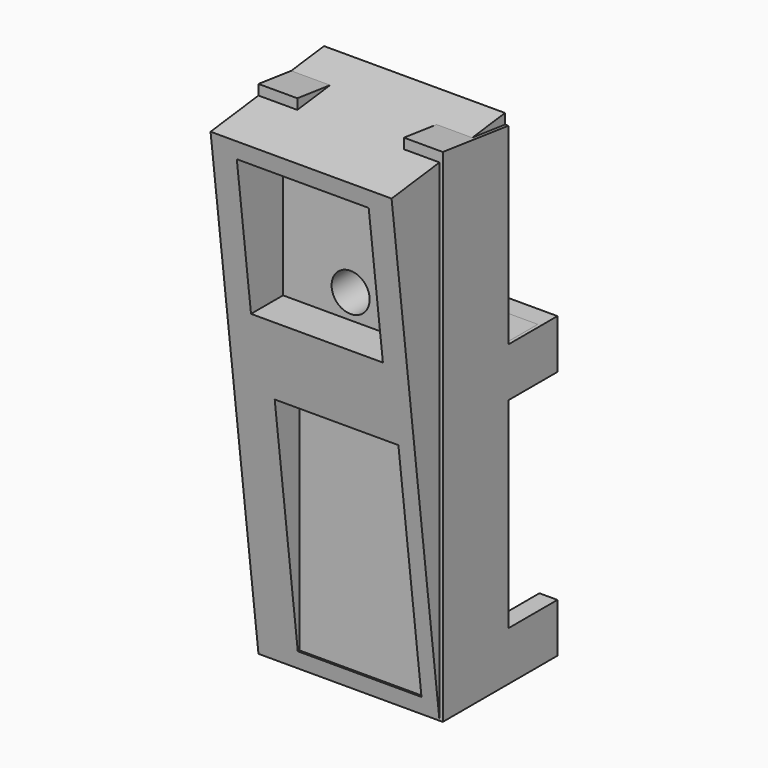
from build123d import *

# Parameters (mm, degrees)
SKETCH_W        = 45
SKETCH_H        = 20
PAD_DEPTH       = 120
PAD001_DEPTH    = 45
SKETCH002_R     = 4.65
POCKET_DEPTH    = 20
PAD002_DEPTH    = 15
PAD003_DEPTH    = 15
POCKET001_DEPTH = 9.8
SKETCH005_W     = 10
SKETCH005_H     = 73
PAD004_DEPTH    = 5
PAD005_DEPTH    = 15
PAD006_DEPTH    = 5
PAD007_DEPTH    = 15
PAD008_DEPTH    = 5
SKETCH008_W     = 44.2
SKETCH008_H     = 4
PAD009_DEPTH    = 10
SKETCH009_W     = 30.2
SKETCH009_H     = 5
PAD010_DEPTH    = 8
SKETCH011_W     = 4
SKETCH011_H     = 5
PAD011_DEPTH    = 49
SKETCH013_W     = 4
SKETCH013_H     = 15
PAD012_DEPTH    = 49
SKETCH014_W     = 44.2
SKETCH014_H     = 20
PAD013_DEPTH    = 47
PAD014_DEPTH    = 44.2
PAD015_DEPTH    = 44.2
SKETCH017_W     = 30.2
SKETCH017_H     = 57
POCKET002_DEPTH = 10
SKETCH018_W     = 32.2
SKETCH018_H     = 35
POCKET003_DEPTH = 50


with BuildPart() as body:
    # Sketch → Pad (new body)
    with BuildSketch(Plane.XY):
        with Locations((22.5, 10)):
            Rectangle(SKETCH_W, SKETCH_H)
    extrude(amount=PAD_DEPTH)

    # Sketch001 (on Face2 of Pad) → Pad001 (join)
    with BuildSketch(Plane.YZ.offset(45)):
        Polygon((0, 120), (0, 122.5), (20, 120), align=None)
    extrude(amount=-PAD001_DEPTH)

    # Sketch002 (on Face6 of Pad001) → Pocket (cut)
    with BuildSketch(Plane.XZ):
        with Locations((22.5, 85)):
            Circle(SKETCH002_R)
    extrude(amount=-POCKET_DEPTH, mode=Mode.SUBTRACT)

    # Sketch003 (on Face1 of Pocket) → Pad002 (join)
    with BuildSketch(Plane(origin=(0, 20, 0), x_dir=(-1, 0, 0), z_dir=(0, 1, 0))):
        Polygon((-4.4, 4), (-40.6, 4), (-40.6, 12), (-45, 12), (-45, 0), (0, 0), (0, 12), (-4.4, 12), align=None)
    extrude(amount=PAD002_DEPTH)

    # Sketch004 (on Face1 of Pad002) → Pad003 (join)
    with BuildSketch(Plane(origin=(0, 20, 0), x_dir=(-1, 0, 0), z_dir=(0, 1, 0))):
        Polygon((0, 73), (-45, 73), (-45, 61), (-40.6, 61), (-40.6, 69), (-4.4, 69), (-4.4, 61), (0, 61), align=None)
    extrude(amount=PAD003_DEPTH)

    # Sketch010 (on Face27 of Pad003) → Pocket001 (cut)
    with BuildSketch(Plane(origin=(0, 15.0769230769, 120.6153846154), x_dir=(1, 0, 0), z_dir=(0, 0.1240347346, 0.9922778767))):
        Polygon((9.5, 4.9613893836), (9.5, -15.1942549872), (35.5, -15.1942549872), (35.5, 4.9613893836), (35.5, 6.9613893836), (9.5, 6.9613893836), align=None)
    extrude(amount=-POCKET001_DEPTH, mode=Mode.SUBTRACT)


with BuildPart() as batteryrearmotorholder001:
    # Sketch005 → Pad004 (new body)
    with BuildSketch(Plane.XZ):
        with Locations((5, 36.5)):
            Rectangle(SKETCH005_W, SKETCH005_H)
    extrude(amount=-PAD004_DEPTH)

    # Sketch006 (on Face6 of Pad004) → Pad005 (join)
    with BuildSketch(Plane(origin=(0, 5, 0), x_dir=(1, 0, 0), z_dir=(0, 1, 0))):
        Polygon((0, 0), (10, 0), (44.2, 0), (44.2, -12), (40.2, -12), (40.2, -4), (4, -4), (4, -12), (0, -12), align=None)
    extrude(amount=PAD005_DEPTH)

    # Sketch006 (on Face6 of Pad004) → Pad006 (join)
    with BuildSketch(Plane(origin=(0, 5, 0), x_dir=(1, 0, 0), z_dir=(0, 1, 0))):
        Polygon((0, 0), (10, 0), (44.2, 0), (44.2, -12), (40.2, -12), (40.2, -4), (4, -4), (4, -12), (0, -12), align=None)
    extrude(amount=-PAD006_DEPTH)

    # Sketch007 (on Face6 of Pad004) → Pad007 (join)
    with BuildSketch(Plane(origin=(0, 5, 0), x_dir=(1, 0, 0), z_dir=(0, 1, 0))):
        Polygon((0, -73), (0, -61), (4, -61), (4, -69), (40.2, -69), (40.2, -61), (44.2, -61), (44.2, -73), align=None)
    extrude(amount=PAD007_DEPTH)

    # Sketch007 (on Face6 of Pad004) → Pad008 (join)
    with BuildSketch(Plane(origin=(0, 5, 0), x_dir=(1, 0, 0), z_dir=(0, 1, 0))):
        Polygon((0, -73), (0, -61), (4, -61), (4, -69), (40.2, -69), (40.2, -61), (44.2, -61), (44.2, -73), align=None)
    extrude(amount=-PAD008_DEPTH)

    # Sketch008 (on Face33 of Pad008) → Pad009 (join)
    with BuildSketch(Plane(origin=(0, 20, 0), x_dir=(1, 0, 0), z_dir=(0, 1, 0))):
        with Locations((22.1, -71)):
            Rectangle(SKETCH008_W, SKETCH008_H)
    extrude(amount=PAD009_DEPTH)

    # Sketch009 (on Face32 of Pad009) → Pad010 (join)
    with BuildSketch(Plane(origin=(0, 0, 69), x_dir=(1, 0, 0), z_dir=(0, 0, -1))):
        with Locations((25.1, -2.5)):
            Rectangle(SKETCH009_W, SKETCH009_H)
    extrude(amount=PAD010_DEPTH)

    # Sketch011 (on Face16 of Pad009) → Pad011 (join)
    with BuildSketch(Plane(origin=(0, 0, 12), x_dir=(-1, 0, 0), z_dir=(0, 0, 1))):
        with Locations((-42.2, -2.5)):
            Rectangle(SKETCH011_W, SKETCH011_H)
    extrude(amount=PAD011_DEPTH)

    # Sketch013 (on Face45 of Pad011) → Pad012 (join)
    with BuildSketch(Plane(origin=(0, 0, 61), x_dir=(1, 0, 0), z_dir=(0, 0, -1))):
        with Locations((42.2, -12.5)):
            Rectangle(SKETCH013_W, SKETCH013_H)
    extrude(amount=PAD012_DEPTH)

    # Sketch014 (on Face44 of Pad012) → Pad013 (join)
    with BuildSketch(Plane(origin=(0, 0, 73), x_dir=(-1, 0, 0), z_dir=(0, 0, 1))):
        with Locations((-22.1, -10)):
            Rectangle(SKETCH014_W, SKETCH014_H)
    extrude(amount=PAD013_DEPTH)

    # Sketch015 (on Face33 of Pad013) → Pad014 (join)
    with BuildSketch(Plane(origin=(0, 0, 0), x_dir=(0, 0, -1), z_dir=(-1, 0, 0))):
        Polygon((-120, 0), (-120, -20), (-122.5, -20), align=None)
    extrude(amount=-PAD014_DEPTH)

    # Sketch016 (on Face33 of Pad014) → Pad015 (join)
    with BuildSketch(Plane(origin=(0, 0, 0), x_dir=(0, 0, -1), z_dir=(-1, 0, 0))):
        Polygon((-120, 0), (0, 0), (-118.1725, 14.62), align=None)
    extrude(amount=-PAD015_DEPTH)

    # Sketch017 (on Face48 of Pad015) → Pocket002 (cut)
    with BuildSketch(Plane(origin=(0, 0, 0), x_dir=(1, 0, 0), z_dir=(0, 1, 0))):
        with Locations((25.1, -32.5)):
            Rectangle(SKETCH017_W, SKETCH017_H)
    extrude(amount=-POCKET002_DEPTH, mode=Mode.SUBTRACT)

    # Sketch018 (on Face36 of Pocket002) → Pocket003 (cut)
    with BuildSketch(Plane(origin=(0, 20, 0), x_dir=(1, 0, 0), z_dir=(0, 1, 0))):
        with Locations((22.1, -96.5)):
            Rectangle(SKETCH018_W, SKETCH018_H)
    extrude(amount=-POCKET003_DEPTH, mode=Mode.SUBTRACT)


solid = Compound([body.part, batteryrearmotorholder001.part])
